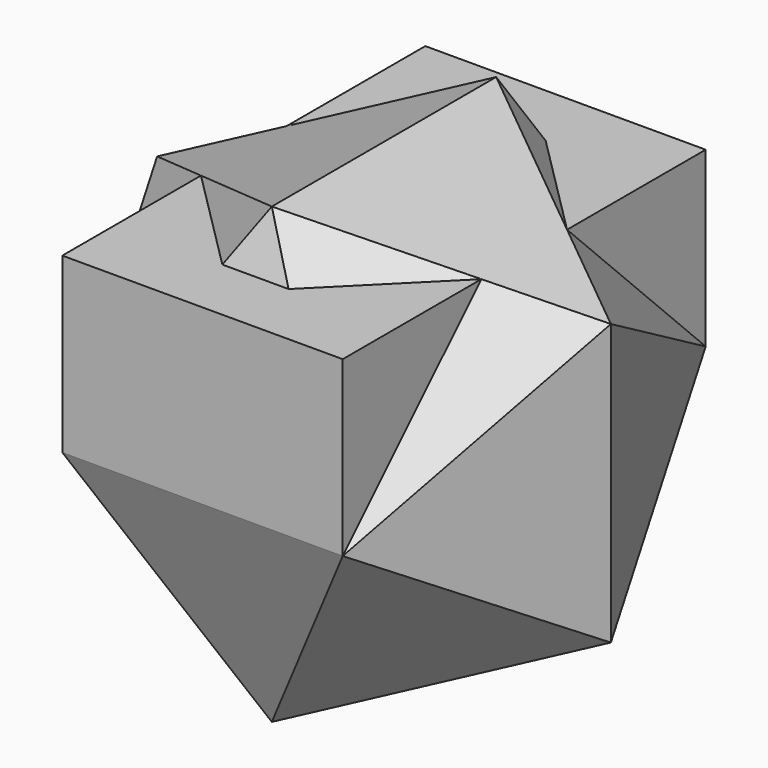
from build123d import *

# Parameters (mm, degrees)
F1_W      = 279.4
F1_H      = 452.0786964567
F2_DEPTH  = 172.6692
F47_DEPTH = 0.01016


with BuildPart() as f2:
    # F1 (on Top) → F2 (new body)
    with BuildSketch(Plane.XY):
        with Locations((139.7, -53.3606517716)):
            Rectangle(F1_W, F1_H)
    extrude(amount=F2_DEPTH)


with BuildPart() as f47:
    # F46 (on 3pt) + F14 (on 3pt) + F44 (on 3pt) + F42 (on 3pt) + F40 (on 3pt) + F12 (on 3pt) + F38 (on 3pt) + F36 (on 3pt) + F34 (on 3pt) + F32 (on 3pt) + F30 (on 3pt) + F28 (on 3pt) + F26 (on 3pt) + F24 (on 3pt) + F22 (on 3pt) + F20 (on 3pt) + F18 (on 3pt) + F16 (on 3pt) + F10 (on 3pt) + F8 (on 3pt) → F47 (new body)
    with BuildSketch(Plane(origin=(0, -243.8262321522, -93.1333333333), x_dir=(-1, 0, 0), z_dir=(0, 0.934172359, 0.3568220898))):
        Polygon((-139.7, -142.2714059348), (0, 99.6960918826), (-279.4, 99.6960918826), align=None)
    with BuildSketch(Plane(origin=(0, -243.8262321522, 93.1333333333), x_dir=(1, 0, 0), z_dir=(0, -0.934172359, 0.3568220898))):
        Polygon((139.7, 142.2714059348), (0, -99.6960918826), (279.4, -99.6960918826), align=None)
    with BuildSketch(Plane(origin=(-93.1333333333, -93.1333333333, -93.1333333333), x_dir=(0.4082482905, -0.8164965809, 0.4082482905), z_dir=(-0.5773502692, -0.5773502692, -0.5773502692))):
        Polygon((122.3854707692, -258.616773279), (228.1291447112, 0), (-48.7113877642, -37.7316787163), align=None)
    with BuildSketch(Plane(origin=(-93.1333333333, -35.5737678478, 0), x_dir=(0.3568220898, -0.934172359, 0), z_dir=(-0.934172359, -0.3568220898, 0))):
        Polygon((19.0402592768, 139.7), (19.0402592768, -139.7), (261.0077570942, 0), align=None)
    with BuildSketch(Plane(origin=(-93.1333333333, -93.1333333333, 93.1333333333), x_dir=(0.8164965809, -0.4082482905, 0.4082482905), z_dir=(0.5773502692, 0.5773502692, -0.5773502692))):
        Polygon((8.3208984136, -61.0511386155), (285.161430889, -23.3194598992), (114.0645723556, 197.5656346635), align=None)
    with BuildSketch(Plane(origin=(186.2666666667, -186.2666666667, -186.2666666667), x_dir=(0.8164965809, 0.4082482905, 0.4082482905), z_dir=(0.5773502692, -0.5773502692, -0.5773502692))):
        Polygon((219.8082462976, -61.0511386155), (114.0645723556, 197.5656346635), (-57.0322861778, -23.3194598992), align=None)
    with BuildSketch(Plane(origin=(93.1333333333, 0, -243.8262321522), x_dir=(0.934172359, 0, 0.3568220898), z_dir=(0.3568220898, 0, -0.934172359))):
        Polygon((291.8155437587, 53.3606517716), (49.8480459413, 193.0606517716), (49.8480459413, -86.3393482284), align=None)
    with BuildSketch(Plane(origin=(-57.5595654856, 0, -150.6928988189), x_dir=(0.934172359, 0, -0.3568220898), z_dir=(0.3568220898, 0, 0.934172359))):
        Polygon((211.1597111529, -193.0606517716), (211.1597111529, 86.3393482284), (-30.8077866645, -53.3606517716), align=None)
    with BuildSketch(Plane(origin=(-57.5595654856, 57.5595654856, -57.5595654856), x_dir=(0.8164965809, 0.4082482905, -0.4082482905), z_dir=(0.5773502692, -0.5773502692, 0.5773502692))):
        Polygon((241.5926411614, -98.7828173318), (70.495782628, 122.102277231), (-35.247891314, -136.514496048), align=None)
    with BuildSketch(Plane(origin=(-57.5595654856, 57.5595654856, 57.5595654856), x_dir=(0.8164965809, 0.4082482905, 0.4082482905), z_dir=(0.5773502692, -0.5773502692, -0.5773502692))):
        Polygon((241.5926411614, 98.7828173318), (-35.247891314, 136.514496048), (70.495782628, -122.102277231), align=None)
    with BuildSketch(Plane(origin=(0, 150.6928988189, -57.5595654856), x_dir=(1, 0, 0), z_dir=(0, -0.934172359, 0.3568220898))):
        Polygon((279.4, 61.615573329), (0, 61.615573329), (139.7, -180.3519244884), align=None)
    with BuildSketch(Plane(origin=(-57.5595654856, 21.9857976378, 0), x_dir=(-0.3568220898, -0.934172359, 0), z_dir=(-0.934172359, 0.3568220898, 0))):
        Polygon((80.6558326058, 139.7), (-161.3116652116, 0), (80.6558326058, -139.7), align=None)
    with BuildSketch(Plane(origin=(150.6928988189, 150.6928988189, -150.6928988189), x_dir=(0.8164965809, -0.4082482905, 0.4082482905), z_dir=(0.5773502692, 0.5773502692, -0.5773502692))):
        Polygon((-13.4634964502, 98.7828173318), (157.6333620832, -122.102277231), (263.3770360252, 136.514496048), align=None)
    with BuildSketch(Plane(origin=(-57.5595654856, 0, 150.6928988189), x_dir=(0.934172359, 0, 0.3568220898), z_dir=(0.3568220898, 0, -0.934172359))):
        Polygon((-30.8077866645, 53.3606517716), (211.1597111529, -86.3393482284), (211.1597111529, 193.0606517716), align=None)
    with BuildSketch(Plane(origin=(0, 150.6928988189, 57.5595654856), x_dir=(-1, 0, 0), z_dir=(0, 0.934172359, 0.3568220898))):
        Polygon((-279.4, -61.615573329), (0, -61.615573329), (-139.7, 180.3519244884), align=None)
    with BuildSketch(Plane(origin=(301.3857976378, 115.1191309711, 0), x_dir=(-0.3568220898, 0.934172359, 0), z_dir=(0.934172359, 0.3568220898, 0))):
        Polygon((61.615573329, 0), (-180.3519244884, 139.7), (-180.3519244884, -139.7), align=None)
    with BuildSketch(Plane(origin=(93.1333333333, 0, 243.8262321522), x_dir=(0.934172359, 0, -0.3568220898), z_dir=(0.3568220898, 0, 0.934172359))):
        Polygon((49.8480459413, 86.3393482284), (49.8480459413, -193.0606517716), (291.8155437587, -53.3606517716), align=None)
    with BuildSketch(Plane(origin=(150.6928988189, 150.6928988189, 150.6928988189), x_dir=(0.4082482905, -0.8164965809, 0.4082482905), z_dir=(-0.5773502692, -0.5773502692, -0.5773502692))):
        Polygon((249.913539575, -159.8339559473), (78.8166810416, 61.0511386155), (-26.9269929004, -197.5656346635), align=None)
    with BuildSketch(Plane(origin=(336.9595654856, -128.7071011811, 0), x_dir=(-0.3568220898, -0.934172359, 0), z_dir=(-0.934172359, 0.3568220898, 0))):
        Polygon((-80.6558326058, -139.7), (161.3116652116, 0), (-80.6558326058, 139.7), align=None)
    with BuildSketch(Plane(origin=(186.2666666667, -186.2666666667, 186.2666666667), x_dir=(0.8164965809, 0.4082482905, -0.4082482905), z_dir=(0.5773502692, -0.5773502692, 0.5773502692))):
        Polygon((219.8082462976, 61.0511386155), (-57.0322861778, 23.3194598992), (114.0645723556, -197.5656346635), align=None)
    extrude(amount=F47_DEPTH, dir=(0, 0.934172359, 0.3568220898))


solid = Compound([f2.part, f47.part])
